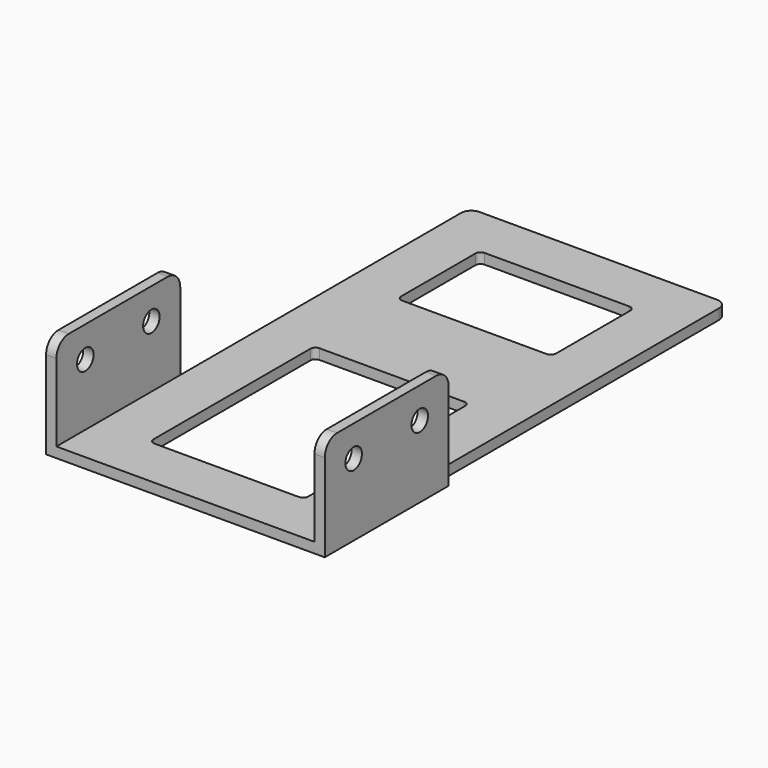
from build123d import *

# Parameters (mm, degrees)
CYLINDER001_R               = 2
CYLINDER001_DEPTH           = 10
CYLINDER001_PITCH_ANGLE     = 90
CYLINDER001_PLACEMENT_ANGLE = -1e-06
CYLINDER_R                  = 2
CYLINDER_DEPTH              = 10
CYLINDER_PITCH_ANGLE        = 90
CYLINDER_PLACEMENT_ANGLE    = -1e-06
BOX003_W                    = 2
BOX003_H                    = 30
BOX003_DEPTH                = 20
FILLET004_R                 = 3
CYLINDER003_R               = 2
CYLINDER003_DEPTH           = 10
CYLINDER003_PITCH_ANGLE     = 90
CYLINDER003_PLACEMENT_ANGLE = -1e-06
CYLINDER002_R               = 2
CYLINDER002_DEPTH           = 10
CYLINDER002_PITCH_ANGLE     = 90
CYLINDER002_PLACEMENT_ANGLE = -1e-06
BOX004_W                    = 2
BOX004_H                    = 30
BOX004_DEPTH                = 20
FILLET005_R                 = 3
BOX002_W                    = 30
BOX002_H                    = 40
BOX002_DEPTH                = 10
FILLET003_R                 = 1
BOX001_W                    = 30
BOX001_H                    = 20
BOX001_DEPTH                = 10
FILLET002_R                 = 1
BOX_W                       = 50
BOX_H                       = 100
BOX_DEPTH                   = 2
FILLET_R                    = 2
FILLET001_R                 = 2


with BuildPart() as cylinder001:
    # Cylinder001 → Cylinder001 (new body)
    with BuildSketch(Plane.XY):
        Circle(CYLINDER001_R)
    extrude(amount=CYLINDER001_DEPTH)


with BuildPart() as cylinder001_1:
    # Cylinder001 pitch: moved
    add(cylinder001.part.rotate(Axis((0, 0, 0), (0, 1, 0)), CYLINDER001_PITCH_ANGLE))


with BuildPart() as cylinder001_2:
    # Cylinder001 placement: moved
    add(cylinder001_1.part.moved(Location((-6, 23, 14))).rotate(Axis((-6, 23, 14), (0, 0, 1)), CYLINDER001_PLACEMENT_ANGLE))


with BuildPart() as cylinder:
    # Cylinder → Cylinder (new body)
    with BuildSketch(Plane.XY):
        Circle(CYLINDER_R)
    extrude(amount=CYLINDER_DEPTH)


with BuildPart() as cylinder_1:
    # Cylinder pitch: moved
    add(cylinder.part.rotate(Axis((0, 0, 0), (0, 1, 0)), CYLINDER_PITCH_ANGLE))


with BuildPart() as cylinder_2:
    # Cylinder placement: moved
    add(cylinder_1.part.moved(Location((-6, 7, 14))).rotate(Axis((-6, 7, 14), (0, 0, 1)), CYLINDER_PLACEMENT_ANGLE))


with BuildPart() as cut003:
    # Box003 → Box003 (new body)
    with BuildSketch(Plane(origin=(-2, 0, 0), x_dir=(1, 0, 0), z_dir=(0, 0, 1))):
        with Locations((1, 15)):
            Rectangle(BOX003_W, BOX003_H)
    extrude(amount=BOX003_DEPTH)

    # Fillet004
    fillet004_edges = [cut003.edges().sort_by_distance(p)[0] for p in [
        (-1, 0, 20),
        (-1, 30, 20),
    ]]
    fillet(fillet004_edges, radius=FILLET004_R)

    # Cut002: cut Cylinder
    add(cylinder_2.part, mode=Mode.SUBTRACT)

    # Cut003: cut Cylinder001
    add(cylinder001_2.part, mode=Mode.SUBTRACT)


with BuildPart() as cylinder003:
    # Cylinder003 → Cylinder003 (new body)
    with BuildSketch(Plane.XY):
        Circle(CYLINDER003_R)
    extrude(amount=CYLINDER003_DEPTH)


with BuildPart() as cylinder003_1:
    # Cylinder003 pitch: moved
    add(cylinder003.part.rotate(Axis((0, 0, 0), (0, 1, 0)), CYLINDER003_PITCH_ANGLE))


with BuildPart() as cylinder003_2:
    # Cylinder003 placement: moved
    add(cylinder003_1.part.moved(Location((-6, 23, 14))).rotate(Axis((-6, 23, 14), (0, 0, 1)), CYLINDER003_PLACEMENT_ANGLE))


with BuildPart() as cylinder002:
    # Cylinder002 → Cylinder002 (new body)
    with BuildSketch(Plane.XY):
        Circle(CYLINDER002_R)
    extrude(amount=CYLINDER002_DEPTH)


with BuildPart() as cylinder002_1:
    # Cylinder002 pitch: moved
    add(cylinder002.part.rotate(Axis((0, 0, 0), (0, 1, 0)), CYLINDER002_PITCH_ANGLE))


with BuildPart() as cylinder002_2:
    # Cylinder002 placement: moved
    add(cylinder002_1.part.moved(Location((-6, 7, 14))).rotate(Axis((-6, 7, 14), (0, 0, 1)), CYLINDER002_PLACEMENT_ANGLE))


with BuildPart() as cut005:
    # Box004 → Box004 (new body)
    with BuildSketch(Plane(origin=(-2, 0, 0), x_dir=(1, 0, 0), z_dir=(0, 0, 1))):
        with Locations((1, 15)):
            Rectangle(BOX004_W, BOX004_H)
    extrude(amount=BOX004_DEPTH)

    # Fillet005
    fillet005_edges = [cut005.edges().sort_by_distance(p)[0] for p in [
        (-1, 0, 20),
        (-1, 30, 20),
    ]]
    fillet(fillet005_edges, radius=FILLET005_R)

    # Cut004: cut Cylinder002
    add(cylinder002_2.part, mode=Mode.SUBTRACT)

    # Cut005: cut Cylinder003
    add(cylinder003_2.part, mode=Mode.SUBTRACT)


with BuildPart() as cut005_1:
    # Cut005 placement: moved
    add(cut005.part.moved(Location((52, 0, 0))))


with BuildPart() as fillet003:
    # Box002 → Box002 (new body)
    with BuildSketch(Plane(origin=(10, 10, 0), x_dir=(1, 0, 0), z_dir=(0, 0, 1))):
        with Locations((15, 20)):
            Rectangle(BOX002_W, BOX002_H)
    extrude(amount=BOX002_DEPTH)

    # Fillet003
    fillet003_edges = [fillet003.edges().sort_by_distance(p)[0] for p in [
        (10, 10, 5),
        (10, 50, 5),
        (40, 10, 5),
        (40, 50, 5),
    ]]
    fillet(fillet003_edges, radius=FILLET003_R)


with BuildPart() as fillet002:
    # Box001 → Box001 (new body)
    with BuildSketch(Plane(origin=(10, 70, 0), x_dir=(1, 0, 0), z_dir=(0, 0, 1))):
        with Locations((15, 10)):
            Rectangle(BOX001_W, BOX001_H)
    extrude(amount=BOX001_DEPTH)

    # Fillet002
    fillet002_edges = [fillet002.edges().sort_by_distance(p)[0] for p in [
        (10, 70, 5),
        (10, 90, 5),
        (40, 70, 5),
        (40, 90, 5),
    ]]
    fillet(fillet002_edges, radius=FILLET002_R)


with BuildPart() as fusion:
    # Box → Box (new body)
    with BuildSketch(Plane.XY):
        with Locations((25, 50)):
            Rectangle(BOX_W, BOX_H)
    extrude(amount=BOX_DEPTH)

    # Fillet
    fillet_edges = [fusion.edges().sort_by_distance(p)[0] for p in [
        (50, 100, 1),
    ]]
    fillet(fillet_edges, radius=FILLET_R)

    # Fillet001
    fillet001_edges = [fusion.edges().sort_by_distance(p)[0] for p in [
        (0, 100, 1),
    ]]
    fillet(fillet001_edges, radius=FILLET001_R)

    # Cut: cut Fillet002
    add(fillet002.part, mode=Mode.SUBTRACT)

    # Cut001: cut Fillet003
    add(fillet003.part, mode=Mode.SUBTRACT)

    # Fusion: union Cut003, Cut005
    add(cut003.part)
    add(cut005_1.part)


solid = fusion.part
